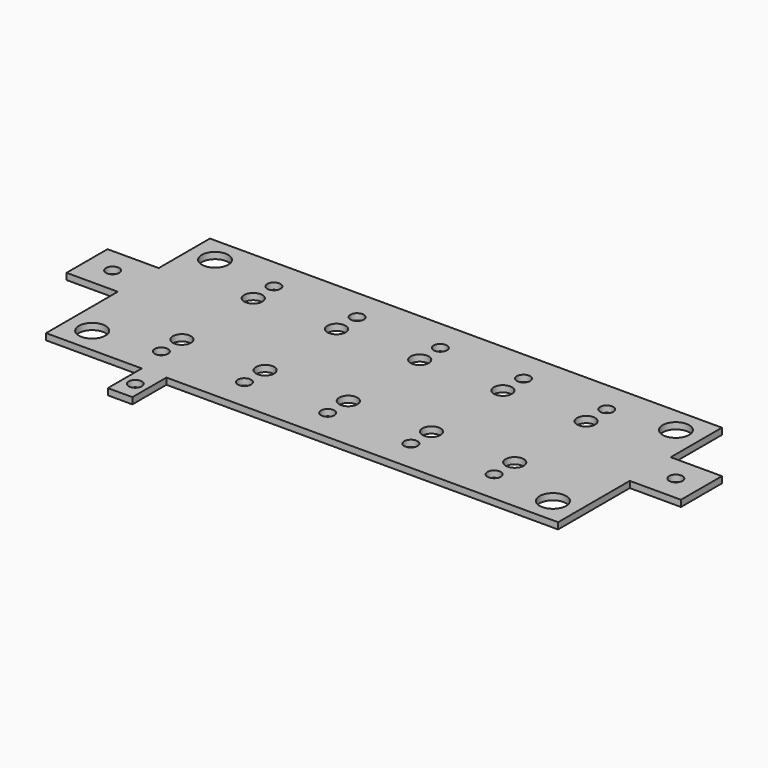
from build123d import *

# Parameters (mm, degrees)
F0_W      = 279.4
F0_H      = 101.6
F1_DEPTH  = 3.175
F2_W      = 25.4
F2_H      = 44.45
F2_H_2    = 31.75
F3_DEPTH  = 3.176
F4_W      = 12.192
F4_H      = 21.082
F5_DEPTH  = 3.175
F7_D      = 6.6
F9_D      = 13.2
F11_D     = 13.2
F13_D     = 6.6
F14_W     = 25.4
F14_H     = 3.175
F15_DEPTH = 25.4
F17_D     = 6.6
F19_D     = 9
F20_D     = 6.6


with BuildPart() as f1:
    # F0 (on Top) → F1 (new body)
    with BuildSketch(Plane.XY):
        with Locations((37.6198536942, 37.7514991719)):
            Rectangle(F0_W, F0_H)
    extrude(amount=F1_DEPTH)

    # F2 (on face) → F3 (cut, through all)
    with BuildSketch(Plane.XY.offset(3.175)):
        with Locations((-89.3801463058, 9.1764991719)):
            Rectangle(F2_W, F2_H)
        with Locations((-89.3801463058, 72.6764991719)):
            Rectangle(F2_W, F2_H_2)
    extrude(amount=-F3_DEPTH, mode=Mode.SUBTRACT)

    # F4 (on face) → F5 (join)
    with BuildSketch(Plane(origin=(0, 0, 0), x_dir=(1, 0, 0), z_dir=(0, 0, -1))):
        with Locations((-23.0861463058, 23.5895008281)):
            Rectangle(F4_W, F4_H)
        Polygon((-16.9901463058, 13.0485008281), (-29.1821463058, 13.0485008281), (-76.6801463058, 13.0485008281), (-76.6801463058, -31.4014991719), (-102.0801463058, -31.4014991719), (-102.0801463058, -56.8014991719), (-76.6801463058, -56.8014991719), (-76.6801463058, -88.5514991719), (177.3198536942, -88.5514991719), (177.3198536942, 13.0485008281), align=None)
    extrude(amount=-F5_DEPTH)

    # F7 (through all)
    with Locations(Plane.XY.offset(3.175)):
        with Locations((-89.3801463058, 44.1014991719)):
            Hole(F7_D / 2)

    # F9 (through all)
    with Locations(Plane.XY.offset(3.175)):
        with Locations((-63.9801463058, 75.8514991719)):
            Hole(F9_D / 2)

    # F11 (through all)
    with Locations(Plane.XY.offset(3.175)):
        with Locations((-63.9801463058, -0.3485008281), (164.6198536942, -0.3485008281), (164.6198536942, 75.8514991719)):
            Hole(F11_D / 2)

    # F13 (through all)
    with Locations(Plane.XY.offset(3.175)):
        with Locations((-23.0861463058, -24.7325008281)):
            Hole(F13_D / 2)

    # F14 (on face) → F15 (join)
    with BuildSketch(Plane.YZ.offset(177.3198536942)):
        with Locations((44.1014991719, 1.5875)):
            Rectangle(F14_W, F14_H)
    extrude(amount=F15_DEPTH)

    # F17 (through all)
    with Locations(Plane(origin=(0, 0, 0), x_dir=(1, 0, 0), z_dir=(0, 0, -1))):
        with Locations((190.0198536942, -44.1014991719)):
            Hole(F17_D / 2)

    # F19 (through all)
    with Locations(Plane.XY.offset(3.175)):
        with Locations((-32.2301463058, 59.8764993719), (9.0448536942, 59.8764993719), (50.3198536942, 59.8764993719), (91.5948536942, 59.8764993719), (132.8698536942, 59.8764993719), (132.8698536942, 15.6264989719), (91.5948536942, 15.6264989719), (50.3198536942, 15.6264989719), (9.0448536942, 15.6264989719), (-32.2301463058, 15.6264989719)):
            Hole(F19_D / 2)

    # F20 (through all)
    with Locations(Plane.XY.offset(3.175)):
        with Locations((-32.2301463058, 72.6764991719), (-32.2301463058, 2.8264991719), (9.0448536942, 2.8264991719), (9.0448536942, 72.6764991719), (50.3198536942, 72.6764991719), (50.3198536942, 2.8264991719), (91.5948536942, 2.8264991719), (91.5948536942, 72.6764991719), (132.8698536942, 72.6764991719), (132.8698536942, 2.8264991719)):
            Hole(F20_D / 2)


solid = f1.part
